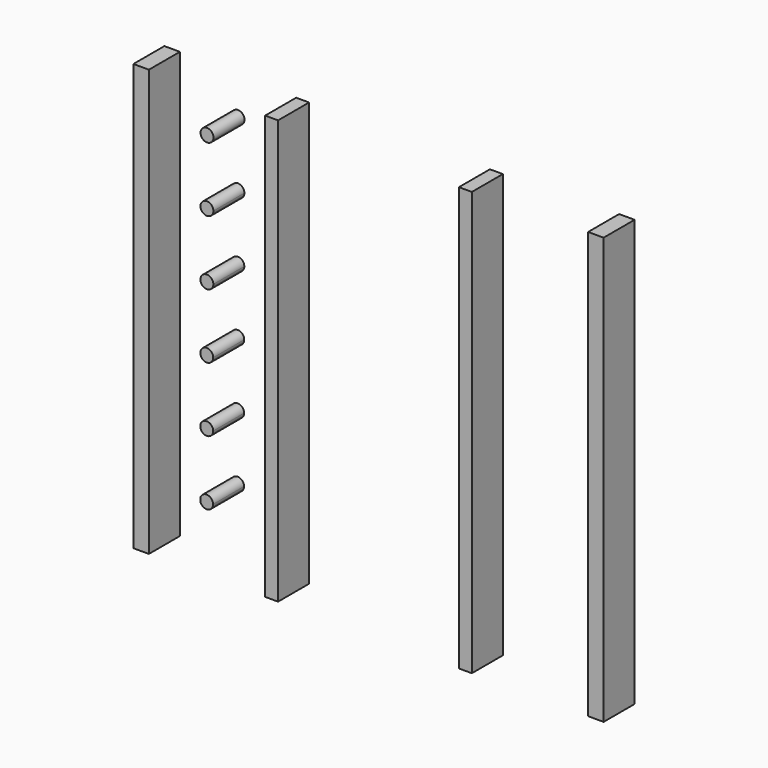
from build123d import *

# Parameters (mm, degrees)
F1_DEPTH = 19.05


with BuildPart() as f1:
    # F0 (on Front) → F1 (new body)
    with BuildSketch(Plane.XZ):
        Polygon((108.117165637, -95.7947247652), (108.117165637, -127.5447247652), (115.737165637, -127.5447247652), (115.737165637, 82.0052752348), (108.117165637, 82.0052752348), (108.117165637, 62.9552752348), (108.117165637, 31.2052752348), (108.117165637, -0.5447247652), (108.117165637, -32.2947247652), (108.117165637, -64.0447247652), align=None)
    extrude(amount=F1_DEPTH)


with BuildPart() as f1b:
    # F0 (on Front) → F1, piece 2 (new body)
    with BuildSketch(Plane.XZ):
        Polygon((50.967165637, 31.2052752348), (50.967165637, 62.9552752348), (50.967165637, 80.7352752348), (44.617165637, 80.7352752348), (44.617165637, 62.9552752348), (44.617165637, 31.2052752348), (44.617165637, -0.5447247652), (44.617165637, -32.2947247652), (44.617165637, -64.0447247652), (44.617165637, -95.7947247652), (44.617165637, -127.5447247652), (50.967165637, -127.5447247652), (50.967165637, -95.7947247652), (50.967165637, -64.0447247652), (50.967165637, -32.2947246679), (50.967165637, -0.544724715), align=None)
    extrude(amount=F1_DEPTH)


with BuildPart() as f1c:
    # F0 (on Front) → F1, piece 3 (new body)
    with BuildSketch(Plane.XZ):
        Polygon((-50.632834363, -127.5447247652), (-44.282834363, -127.5447247652), (-44.282834363, -95.7947247051), (-44.282834363, -64.0447247652), (-44.282834363, -32.2947247652), (-44.282834363, -0.5447248178), (-44.282834363, 31.2052752348), (-44.282834363, 62.9552752348), (-44.282834363, 80.7352752348), (-50.632834363, 80.7352752348), (-50.632834363, 62.9552752348), (-50.632834363, 31.2052752348), (-50.632834363, -0.5447247652), (-50.632834363, -32.2947247652), (-50.632834363, -64.0447247652), (-50.632834363, -95.7947247652), align=None)
    extrude(amount=F1_DEPTH)


with BuildPart() as f1d:
    # F0 (on Front) → F1, piece 4 (new body)
    with BuildSketch(Plane.XZ):
        Polygon((-115.402834363, -127.5447247652), (-107.782834363, -127.5447247652), (-107.782834363, -95.7947247652), (-107.782834363, -64.0447247652), (-107.782834363, -32.2947247652), (-107.782834363, -0.5447247652), (-107.782834363, 31.2052752348), (-107.782834363, 62.9552752348), (-107.782834363, 82.0052752348), (-115.402834363, 82.0052752348), align=None)
    extrude(amount=F1_DEPTH)


with BuildPart() as f1e:
    # F0 (on Front) → F1, piece 5 (new body)
    with BuildSketch(Plane.XZ):
        with BuildLine():
            ThreePointArc((-76.2307250385, -95.7946014243), (-78.903232835, -92.6596171204), (-82.4216709191, -94.8022832066))
            ThreePointArc((-82.4216709191, -94.8022832066), (-82.3925472162, -95.2981241899), (-82.382834363, -95.7947247652))
            ThreePointArc((-82.382834363, -95.7947247652), (-82.3925433095, -96.2912254986), (-82.4216553044, -96.7869670983))
            ThreePointArc((-82.4216553044, -96.7869670983), (-78.9032081703, -98.9295817747), (-76.2307250385, -95.7946014243))
        make_face()
    extrude(amount=F1_DEPTH)


with BuildPart() as f1f:
    # F0 (on Front) → F1, piece 6 (new body)
    with BuildSketch(Plane.XZ):
        with BuildLine():
            ThreePointArc((-76.1911469034, -64.0446260925), (-78.9169169837, -60.901567474), (-82.4140240557, -63.1552050085))
            ThreePointArc((-82.4140240557, -63.1552050085), (-82.3906341813, -63.5996915658), (-82.382834363, -64.0447247652))
            ThreePointArc((-82.382834363, -64.0447247652), (-82.3906313876, -64.4896782803), (-82.4140128875, -64.9340854468))
            ThreePointArc((-82.4140128875, -64.9340854468), (-78.9168972509, -67.1876818906), (-76.1911469034, -64.0446260925))
        make_face()
    extrude(amount=F1_DEPTH)


with BuildPart() as f1g:
    # F0 (on Front) → F1, piece 7 (new body)
    with BuildSketch(Plane.XZ):
        with BuildLine():
            ThreePointArc((-76.1515687683, -32.2946507607), (-78.9377075307, -29.1435538187), (-82.4063164457, -31.5227833863))
            ThreePointArc((-82.4063164457, -31.5227833863), (-82.3887062411, -31.9085755387), (-82.382834363, -32.2947247652))
            ThreePointArc((-82.382834363, -32.2947247652), (-82.3887044276, -32.6808143696), (-82.4063091949, -33.0665470651))
            ThreePointArc((-82.4063091949, -33.0665470651), (-78.9376927305, -35.4457458762), (-76.1515687683, -32.2946507607))
        make_face()
    extrude(amount=F1_DEPTH)


with BuildPart() as f1h:
    # F0 (on Front) → F1, piece 8 (new body)
    with BuildSketch(Plane.XZ):
        with BuildLine():
            ThreePointArc((-76.1119906332, -0.5446754288), (-78.9696355559, 2.6144242459), (-82.398548589, 0.0868561123))
            ThreePointArc((-82.398548589, 0.0868561123), (-82.3867635273, -0.228836596), (-82.382834363, -0.5447247652))
            ThreePointArc((-82.382834363, -0.5447247652), (-82.3867625407, -0.8605732798), (-82.398544644, -1.1762264071))
            ThreePointArc((-82.398544644, -1.1762264071), (-78.9696256888, -3.7037741123), (-76.1119906332, -0.5446754288))
        make_face()
    extrude(amount=F1_DEPTH)


with BuildPart() as f1i:
    # F0 (on Front) → F1, piece 9 (new body)
    with BuildSketch(Plane.XZ):
        with BuildLine():
            ThreePointArc((-76.0724124981, 31.205299903), (-79.0231130659, 34.3723671212), (-82.3907210113, 31.6527779367))
            ThreePointArc((-82.3907210113, 31.6527779367), (-82.3848061781, 31.429061331), (-82.382834363, 31.2052752348))
            ThreePointArc((-82.382834363, 31.2052752348), (-82.3848058295, 30.9815089194), (-82.3907196171, 30.757812076))
            ThreePointArc((-82.3907196171, 30.757812076), (-79.0231081323, 28.0382330342), (-76.0724124981, 31.205299903))
        make_face()
    extrude(amount=F1_DEPTH)


with BuildPart() as f1j:
    # F0 (on Front) → F1, piece 10 (new body)
    with BuildSketch(Plane.XZ):
        with BuildLine():
            ThreePointArc((-76.032834363, 62.9552752348), (-79.207834363, 66.1302752348), (-82.382834363, 62.9552752348))
            ThreePointArc((-82.382834363, 62.9552752348), (-79.207834363, 59.7802752348), (-76.032834363, 62.9552752348))
        make_face()
    extrude(amount=F1_DEPTH)


solid = Compound([f1.part, f1b.part, f1c.part, f1d.part, f1e.part, f1f.part, f1g.part, f1h.part, f1i.part, f1j.part])
